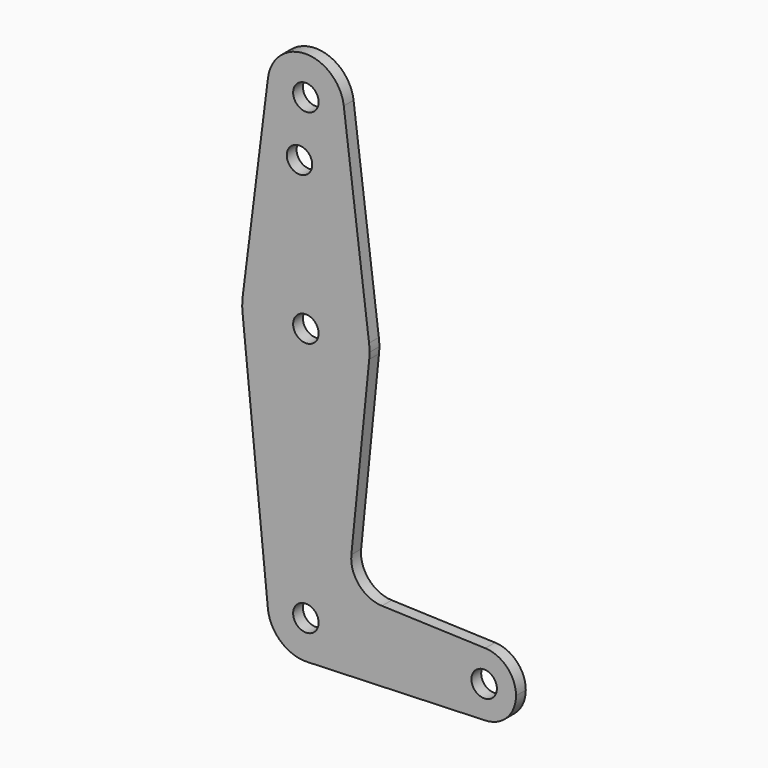
from build123d import *

# Parameters (mm, degrees)
F0_R     = 3.175
F1_DEPTH = 3.048


with BuildPart() as f1:
    # F0 (on Front) → F1 (new body)
    with BuildSketch(Plane.XZ):
        with BuildLine():
            ThreePointArc((79.387288, 440.527797), (88.241098, 429.830867), (98.362581, 439.337172))
            ThreePointArc((98.362581, 439.337172), (98.343886, 439.933655), (98.287874, 440.527797))
            ThreePointArc((98.287874, 440.527797), (88.837581, 448.862172), (79.387288, 440.527797))
        make_face()
        with Locations((88.837581, 439.337172)):
            Circle(F0_R, mode=Mode.SUBTRACT)
        with BuildLine():
            ThreePointArc((98.287874, 440.527797), (98.343886, 439.933655), (98.362581, 439.337172))
            ThreePointArc((98.362581, 439.337172), (88.241098, 429.830867), (79.387288, 440.527797))
            Line((79.387288, 440.527797), (73.087093, 390.521547))
            ThreePointArc((73.087093, 390.521547), (88.837581, 404.412172), (104.58807, 390.521547))
            Line((104.58807, 390.521547), (98.287874, 440.527797))
        make_face()
        with Locations((87.250081, 425.062372)):
            Circle(F0_R, mode=Mode.SUBTRACT)
        with BuildLine():
            ThreePointArc((104.712581, 388.537172), (104.681423, 389.531311), (104.58807, 390.521547))
            ThreePointArc((104.58807, 390.521547), (88.837581, 404.412172), (73.087093, 390.521547))
            ThreePointArc((73.087093, 390.521547), (72.963837, 388.736877), (73.042156, 386.949672))
            ThreePointArc((73.042156, 386.949672), (88.837581, 372.662172), (104.633007, 386.949672))
            ThreePointArc((104.633007, 386.949672), (104.692675, 387.742425), (104.712581, 388.537172))
        make_face()
        with Locations((88.837581, 388.537172)):
            Circle(F0_R, mode=Mode.SUBTRACT)
        with BuildLine():
            ThreePointArc((104.633007, 386.949672), (88.837581, 372.662172), (73.042156, 386.949672))
            Line((73.042156, 386.949672), (79.360326, 324.084672))
            ThreePointArc((79.360326, 324.084672), (88.360733, 334.550228), (98.362581, 325.037172))
            ThreePointArc((98.362581, 325.037172), (95.69199, 318.423345), (89.17776, 315.518248))
            Line((89.17776, 315.518248), (133.571063, 317.104736))
            ThreePointArc((133.571063, 317.104736), (125.350081, 325.037172), (133.571063, 332.969608))
            Line((133.571063, 332.969608), (107.805181, 333.890406))
            ThreePointArc((107.805181, 333.890406), (102.098781, 336.608531), (100.178768, 342.630554))
            Line((100.178768, 342.630554), (104.633007, 386.949672))
        make_face()
        with BuildLine():
            ThreePointArc((98.362581, 325.037172), (88.360733, 334.550228), (79.360326, 324.084672))
            ThreePointArc((79.360326, 324.084672), (82.575198, 317.860252), (89.17776, 315.518248))
            ThreePointArc((89.17776, 315.518248), (95.69199, 318.423345), (98.362581, 325.037172))
        make_face()
        with Locations((88.837581, 325.037172)):
            Circle(F0_R, mode=Mode.SUBTRACT)
        with BuildLine():
            ThreePointArc((133.571063, 332.969608), (125.350081, 325.037172), (133.571063, 317.104736))
            ThreePointArc((133.571063, 317.104736), (138.999588, 319.525649), (141.225081, 325.037172))
            ThreePointArc((141.225081, 325.037172), (138.999588, 330.548695), (133.571063, 332.969608))
        make_face()
        with Locations((133.287581, 325.037172)):
            Circle(F0_R, mode=Mode.SUBTRACT)
    extrude(amount=-F1_DEPTH)


solid = f1.part
